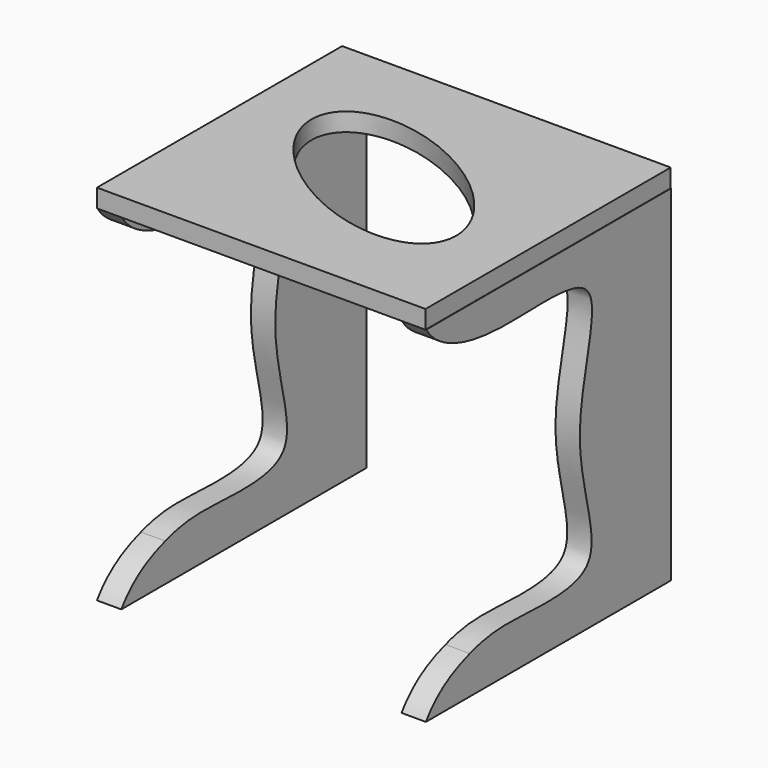
from build123d import *

# Parameters (mm, degrees)
F1_DEPTH = 8
F3_W     = 107.88551718
F3_H     = 100.6305366755
F4_DEPTH = 6
F6_DEPTH = 25.4


with BuildPart() as f1:
    # F0 (on Right) → F1 (new body)
    with BuildSketch(Plane.YZ):
        with BuildLine():
            Line((-50.30900985, -56.6632531285), (50.30900985, -56.6632531285))
            Line((50.30900985, -56.6632531285), (50.30900985, 56.6632531285))
            Line((50.30900985, 56.6632531285), (-50.2040455869, 56.6632531285))
            add(Edge.make_bspline(
                [(-50.2040455869, 56.6632531285), (-45.3604775282, 49.0005479584), (-22.1920963762, 41.5602340537), (29.5979461741, 50.2550108289), (4.4023441713, 0.0293940418), (28.7428582598, -45.9583564438), (-16.8491760662, -40.6825374043), (-27.031312323, -42.5235684727), (-32.2857052088, -44.2337207496)],
                knots=[0.0010536283, 0.0010536283, 0.0010536283, 0.0010536283, 0.1455404638, 0.3031289716, 0.4679555038, 0.627630794, 0.7717992421, 0.8792591873, 0.8792591873, 0.8792591873, 0.8792591873], degree=3))
            add(Edge.make_bspline(
                [(-32.2857052088, -44.2337207496), (-38.1894832692, -46.1552290402), (-45.2370797455, -49.2431485662), (-50.30900985, -56.6632531285)],
                knots=[0.8792591873, 0.8792591873, 0.8792591873, 0.8792591873, 1, 1, 1, 1], degree=3))
        make_face()
    extrude(amount=F1_DEPTH)


with BuildPart() as f2_1:
    # F2: copy of F1
    add(f1.part.moved(Location((100, 0, 0))))


with BuildPart() as f4:
    # F3 (on face) → F4 (new body)
    with BuildSketch(Plane.XY.offset(56.6632531285)):
        with Locations((53.94275859, -0.0062584877)):
            Rectangle(F3_W, F3_H)
    extrude(amount=F4_DEPTH)

    # F5 (on face) → F6 (cut)
    with BuildSketch(Plane.XY.offset(62.6632531285)):
        with BuildLine():
            Line((83.5149080398, 0), (24.3706091401, 0))
            add(Edge.make_bspline(
                [(24.3706091401, 0), (64.4272448467, -57.8502514872), (87.0719235484, -19.6265450377)],
                knots=[3.9905909766, 3.9905909766, 3.9905909766, 6.2831853072, 6.2831853072, 6.2831853072], degree=2, weights=[1, 0.4118644468, 1]))
            add(Edge.make_bspline(
                [(87.0719235484, -19.6265450377), (91.6979097776, -11.8179847135), (83.5149080398, 0)],
                knots=[0, 0, 0, 0.848998323, 0.848998323, 0.848998323], degree=2, weights=[1, 0.9112451248, 1]))
        make_face()
        with BuildLine():
            add(Edge.make_bspline(
                [(83.5149080398, 0), (65.4101153153, 26.1471487498), (35.8379658655, 26.1471487498), (6.2658164156, 26.1471487498), (24.3706091401, 0)],
                knots=[0.848998323, 0.848998323, 0.848998323, 2.4197946498, 2.4197946498, 3.9905909766, 3.9905909766, 3.9905909766], degree=2, weights=[1, 0.7071067812, 1, 0.7071067812, 1]))
            Line((24.3706091401, 0), (83.5149080398, 0))
        make_face()
    extrude(amount=-F6_DEPTH, mode=Mode.SUBTRACT)


solid = Compound([f1.part, f2_1.part, f4.part])
